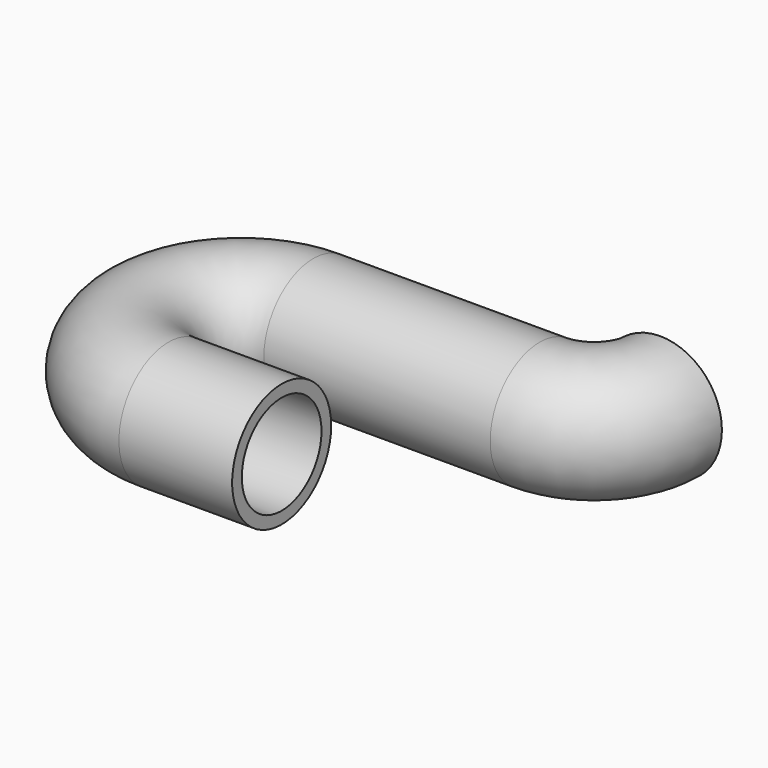
from build123d import *

# Parameters (mm, degrees)
F1_R   = 8.2
F1_R_2 = 6.6


with BuildPart() as f2:
    # F2: sweep along a path in F0
    with BuildLine(Plane.XY) as f2_path:
        Line((0, 0), (-15, 0))
        ThreePointArc((-15, 0), (-27, 12), (-15, 24))
        Line((-15, 24), (15, 24))
        ThreePointArc((15, 24), (21.304210264, 26.5768440041), (23.9984279903, 32.8317926784))
    # F1 (on Right) → F2 (sweep)
    with BuildSketch(Plane.YZ):
        Circle(F1_R)
        Circle(F1_R_2, mode=Mode.SUBTRACT)
    sweep(path=f2_path.line)


solid = f2.part
